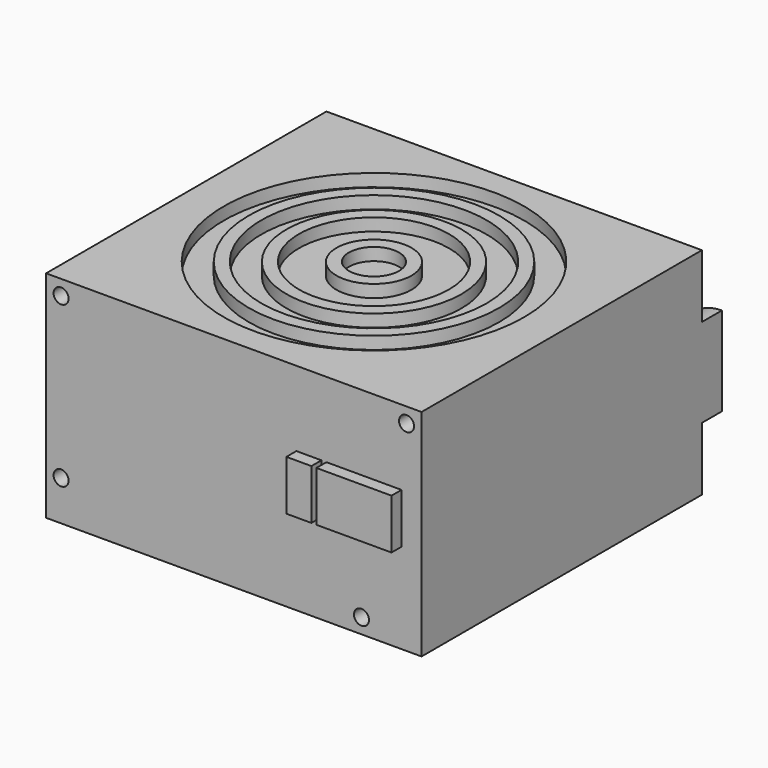
from build123d import *

# Parameters (mm, degrees)
F0_W     = 150
F0_H     = 140
F1_DEPTH = 86
F2_R     = 3
F3_DEPTH = 10
F2_W     = 30
F2_H     = 20
F2_W_2   = 10
F4_DEPTH = 5
F5_R     = 60
F5_R_2   = 50
F5_R_3   = 45
F5_R_4   = 35
F5_R_5   = 30
F5_R_6   = 15
F5_R_7   = 10
F6_DEPTH = 5
F8_DEPTH = 10


with BuildPart() as f1:
    # F0 (on Top) → F1 (new body)
    with BuildSketch(Plane.XY):
        with Locations((7.351223, 24.116237)):
            Rectangle(F0_W, F0_H)
    extrude(amount=F1_DEPTH)

    # F2 (on face) → F3 (cut)
    with BuildSketch(Plane.XZ.offset(45.883763)):
        with Locations((-61.648777, 80)):
            Circle(F2_R)
        with Locations((-61.648777, 16)):
            Circle(F2_R)
        with Locations((76.351223, 80)):
            Circle(F2_R)
        with Locations((58.351223, 6)):
            Circle(F2_R)
    extrude(amount=-F3_DEPTH, mode=Mode.SUBTRACT)

    # F2 (on face) → F4 (join)
    with BuildSketch(Plane.XZ.offset(45.883763)):
        with Locations((59.351223, 46)):
            Rectangle(F2_W, F2_H)
        with Locations((37.351223, 46)):
            Rectangle(F2_W_2, F2_H)
    extrude(amount=F4_DEPTH)

    # F5 (on face) → F6 (cut)
    with BuildSketch(Plane.XY.offset(86)):
        with Locations((7.351223, 24.116237)):
            Circle(F5_R)
        with Locations((7.351223, 24.116237)):
            Circle(F5_R_2, mode=Mode.SUBTRACT)
        with Locations((7.351223, 24.116237)):
            Circle(F5_R_3)
        with Locations((7.351223, 24.116237)):
            Circle(F5_R_4, mode=Mode.SUBTRACT)
        with Locations((7.351223, 24.116237)):
            Circle(F5_R_5)
        with Locations((7.351223, 24.116237)):
            Circle(F5_R_6, mode=Mode.SUBTRACT)
        with Locations((7.351223, 24.116237)):
            Circle(F5_R_7)
    extrude(amount=-F6_DEPTH, mode=Mode.SUBTRACT)

    # F7 (on face) → F8 (join)
    with BuildSketch(Plane(origin=(0, 94.116237, 0), x_dir=(-1, 0, 0), z_dir=(0, 1, 0))):
        with BuildLine():
            ThreePointArc((-82.351223, 25.255258), (-69.803796, 30.452573), (-64.606481, 43))
            ThreePointArc((-64.606481, 43), (-69.803796, 55.547427), (-82.351223, 60.744742))
            Line((-82.351223, 60.744742), (-82.351223, 25.255258))
        make_face()
    extrude(amount=F8_DEPTH)


solid = f1.part
